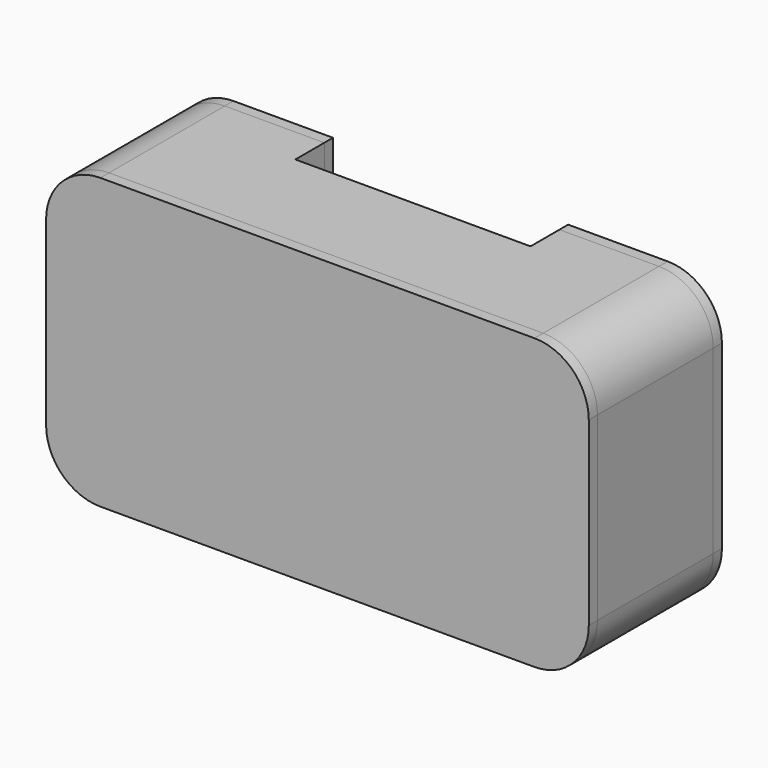
from build123d import *

# Parameters (mm, degrees)
F0_W      = 150
F0_H      = 40
F1_DEPTH  = 80
F2_W      = 65
F2_H      = 20
F3_DEPTH  = 10
F5_DEPTH  = 68.2
F6_W      = 61
F6_H      = 6
F7_DEPTH  = 25
F9_DEPTH  = 3
F10_W     = 150
F10_H     = 80
F11_DEPTH = 3
F12_W     = 150
F12_H     = 80
F13_DEPTH = 3
F15_R     = 15
F16_R     = 15
F17_R     = 15
F18_R     = 15
F19_R     = 15
F20_R     = 15
F21_R     = 15
F22_R     = 15
F23_R     = 15
F24_R     = 15
F25_R     = 15
F26_R     = 15


with BuildPart() as f1:
    # F0 (on Top) → F1 (new body)
    with BuildSketch(Plane.XY):
        Rectangle(F0_W, F0_H)
    extrude(amount=F1_DEPTH)

    # F2 (on face) → F3 (cut)
    with BuildSketch(Plane(origin=(0, 20, 0), x_dir=(-1, 0, 0), z_dir=(0, 1, 0))):
        with Locations((0, 70)):
            Rectangle(F2_W, F2_H)
    extrude(amount=-F3_DEPTH, mode=Mode.SUBTRACT)

    # F4 (on face) → F5 (cut)
    with BuildSketch(Plane(origin=(0, 20, 0), x_dir=(-1, 0, 0), z_dir=(0, 1, 0))):
        with BuildLine():
            Line((45, 48.3222220466), (-35, 48.3222220466))
            ThreePointArc((-35, 48.3222220466), (-42.0710678119, 45.3932898584), (-45, 38.3222220466))
            Line((-45, 38.3222220466), (-45, 28.3222220466))
            ThreePointArc((-45, 28.3222220466), (-42.0710678119, 21.2511542347), (-35, 18.3222220466))
            Line((-35, 18.3222220466), (45, 18.3222220466))
            ThreePointArc((45, 18.3222220466), (52.0710678119, 21.2511542347), (55, 28.3222220466))
            Line((55, 28.3222220466), (55, 38.3222220466))
            ThreePointArc((55, 38.3222220466), (52.0710678119, 45.3932898584), (45, 48.3222220466))
        make_face()
    extrude(amount=-F5_DEPTH, mode=Mode.SUBTRACT)

    # F6 (on face) → F7 (cut)
    with BuildSketch(Plane.XY.offset(60)):
        with Locations((0, 15)):
            Rectangle(F6_W, F6_H)
    extrude(amount=-F7_DEPTH, mode=Mode.SUBTRACT)

    # F15
    f15_edges = [f1.edges().sort_by_distance(p)[0] for p in [
        (-75, 0, 80),
    ]]
    fillet(f15_edges, radius=F15_R)

    # F16
    f16_edges = [f1.edges().sort_by_distance(p)[0] for p in [
        (75, 0, 80),
    ]]
    fillet(f16_edges, radius=F16_R)

    # F17
    f17_edges = [f1.edges().sort_by_distance(p)[0] for p in [
        (-75, 0, 0),
    ]]
    fillet(f17_edges, radius=F17_R)

    # F18
    f18_edges = [f1.edges().sort_by_distance(p)[0] for p in [
        (75, 0, 0),
    ]]
    fillet(f18_edges, radius=F18_R)


with BuildPart() as f9:
    # F8 (on face) → F9 (new body)
    with BuildSketch(Plane(origin=(0, 20, 0), x_dir=(-1, 0, 0), z_dir=(0, 1, 0))):
        Polygon((-32.5, 80), (-75, 80), (-75, 0), (75, 0), (75, 80), (32.5, 80), (32.5, 60), (-32.5, 60), align=None)
        with BuildLine():
            ThreePointArc((-45, 38.3222220466), (-42.0710678119, 45.3932898584), (-35, 48.3222220466))
            Line((-35, 48.3222220466), (45, 48.3222220466))
            ThreePointArc((45, 48.3222220466), (52.0710678119, 45.3932898584), (55, 38.3222220466))
            Line((55, 38.3222220466), (55, 28.3222220466))
            ThreePointArc((55, 28.3222220466), (52.0710678119, 21.2511542347), (45, 18.3222220466))
            Line((45, 18.3222220466), (-35, 18.3222220466))
            ThreePointArc((-35, 18.3222220466), (-42.0710678119, 21.2511542347), (-45, 28.3222220466))
            Line((-45, 28.3222220466), (-45, 38.3222220466))
        make_face(mode=Mode.SUBTRACT)
    extrude(amount=F9_DEPTH)

    # F19
    f19_edges = [f9.edges().sort_by_distance(p)[0] for p in [
        (-75, 21.5, 80),
    ]]
    fillet(f19_edges, radius=F19_R)

    # F20
    f20_edges = [f9.edges().sort_by_distance(p)[0] for p in [
        (75, 21.5, 80),
    ]]
    fillet(f20_edges, radius=F20_R)

    # F21
    f21_edges = [f9.edges().sort_by_distance(p)[0] for p in [
        (75, 21.5, 0),
    ]]
    fillet(f21_edges, radius=F21_R)

    # F22
    f22_edges = [f9.edges().sort_by_distance(p)[0] for p in [
        (-75, 21.5, 0),
    ]]
    fillet(f22_edges, radius=F22_R)


with BuildPart() as f11:
    # F10 (on face) → F11 (new body)
    with BuildSketch(Plane.XZ.offset(20)):
        with Locations((0, 40)):
            Rectangle(F10_W, F10_H)
        with BuildLine():
            ThreePointArc((-55, 38.3222220466), (-52.0710678119, 45.3932898584), (-45, 48.3222220466))
            Line((-45, 48.3222220466), (35, 48.3222220466))
            ThreePointArc((35, 48.3222220466), (42.0710678119, 45.3932898584), (45, 38.3222220466))
            Line((45, 38.3222220466), (45, 28.3222220466))
            ThreePointArc((45, 28.3222220466), (42.0710678119, 21.2511542347), (35, 18.3222220466))
            Line((35, 18.3222220466), (-45, 18.3222220466))
            ThreePointArc((-45, 18.3222220466), (-52.0710678119, 21.2511542347), (-55, 28.3222220466))
            Line((-55, 28.3222220466), (-55, 38.3222220466))
        make_face(mode=Mode.SUBTRACT)
    extrude(amount=F11_DEPTH)


with BuildPart() as f13:
    # F12 (on face) → F13 (new body)
    with BuildSketch(Plane.XZ.offset(20)):
        with Locations((0, 40)):
            Rectangle(F12_W, F12_H)
    extrude(amount=F13_DEPTH)

    # F23
    f23_edges = [f13.edges().sort_by_distance(p)[0] for p in [
        (-75, -21.5, 80),
    ]]
    fillet(f23_edges, radius=F23_R)

    # F24
    f24_edges = [f13.edges().sort_by_distance(p)[0] for p in [
        (75, -21.5, 80),
    ]]
    fillet(f24_edges, radius=F24_R)

    # F25
    f25_edges = [f13.edges().sort_by_distance(p)[0] for p in [
        (75, -21.5, 0),
    ]]
    fillet(f25_edges, radius=F25_R)

    # F26
    f26_edges = [f13.edges().sort_by_distance(p)[0] for p in [
        (-75, -21.5, 0),
    ]]
    fillet(f26_edges, radius=F26_R)


solid = Compound([f1.part, f9.part, f13.part])
